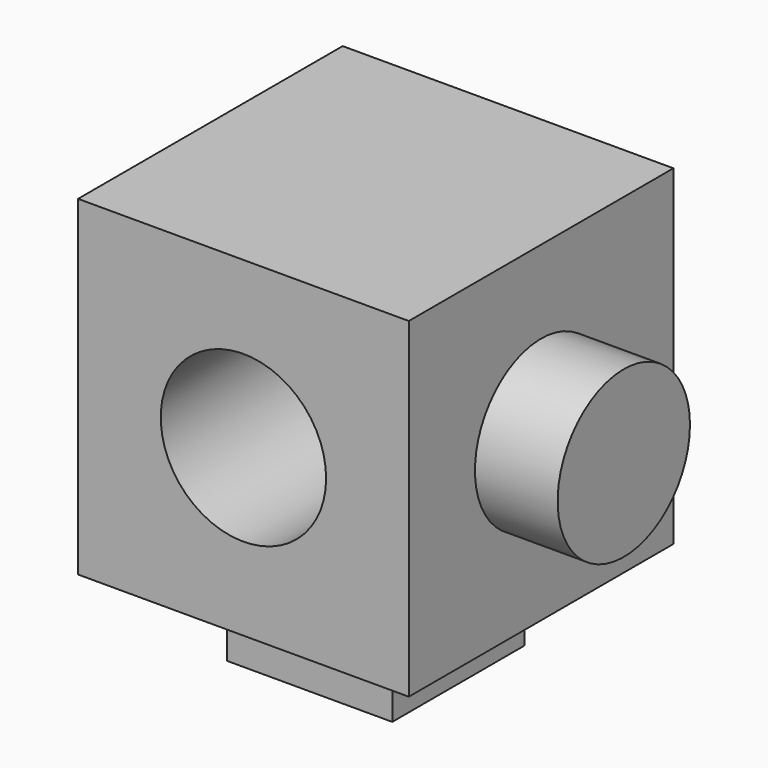
from build123d import *

# Parameters (mm, degrees)
F0_W     = 50.8
F0_H     = 50.8
F1_DEPTH = 50.8
F2_R     = 12.7
F3_DEPTH = 50.8
F4_W     = 25.4
F4_H     = 25.4
F5_DEPTH = 12.7
F6_R     = 12.7
F7_DEPTH = 12.7


with BuildPart() as f1:
    # F0 (on Front) → F1 (new body)
    with BuildSketch(Plane.XZ):
        with Locations((-3.753806, 4.664159)):
            Rectangle(F0_W, F0_H)
    extrude(amount=F1_DEPTH)

    # F2 (on face) → F3 (cut)
    with BuildSketch(Plane.XZ.offset(50.8)):
        with Locations((-3.753806, 4.664159)):
            Circle(F2_R)
    extrude(amount=-F3_DEPTH, mode=Mode.SUBTRACT)

    # F4 (on face) → F5 (join)
    with BuildSketch(Plane(origin=(0, 0, -20.735841), x_dir=(1, 0, 0), z_dir=(0, 0, -1))):
        with Locations((-3.753806, 25.4)):
            Rectangle(F4_W, F4_H)
    extrude(amount=F5_DEPTH)

    # F6 (on face) → F7 (join)
    with BuildSketch(Plane.YZ.offset(21.646194)):
        with Locations((-25.4, 4.664159)):
            Circle(F6_R)
    extrude(amount=F7_DEPTH)


solid = f1.part
